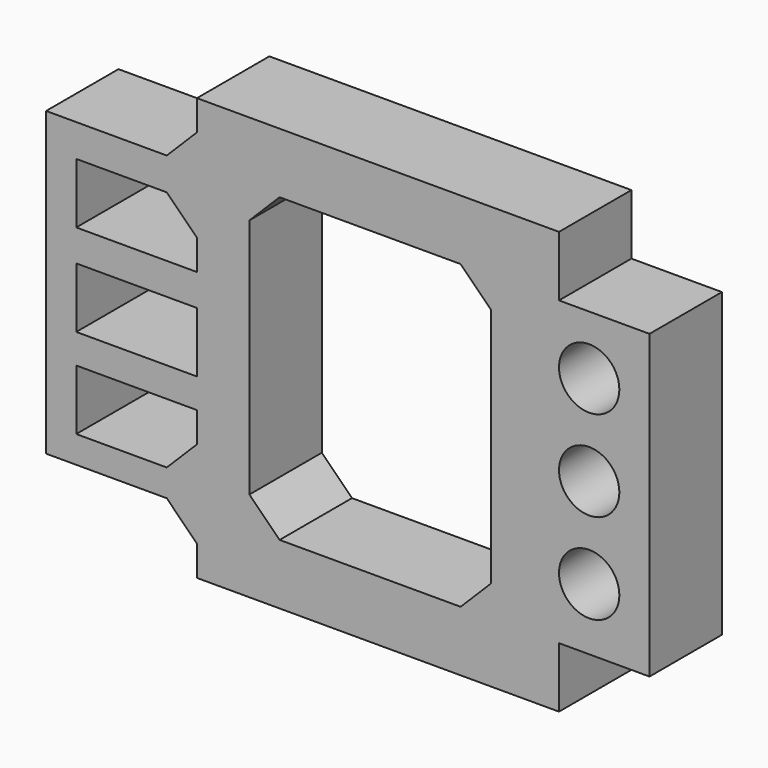
from build123d import *

# Parameters (mm, degrees)
F0_W     = 40
F0_H     = 20
F0_R     = 10
F1_DEPTH = 30


with BuildPart() as f1:
    # F0 (on Front) → F1 (new body)
    with BuildSketch(Plane.XZ):
        Polygon((-43.536229, -70.506869), (-33.536229, -70.506869), (66.463771, -70.506869), (76.463771, -70.506869), (76.463771, -60.506869), (76.463771, -50.506869), (86.463771, -50.506869), (96.463771, -50.506869), (106.463771, -50.506869), (106.463771, -40.506869), (106.463771, 39.493131), (106.463771, 49.493131), (96.463771, 49.493131), (86.463771, 49.493131), (76.463771, 49.493131), (76.463771, 59.493131), (76.463771, 69.493131), (66.463771, 69.493131), (-33.536229, 69.493131), (-43.536229, 69.493131), (-43.536229, 59.493131), (-53.536229, 49.493131), (-83.536229, 49.493131), (-93.536229, 49.493131), (-93.536229, 39.493131), (-93.536229, -40.506869), (-93.536229, -50.506869), (-83.536229, -50.506869), (-53.536229, -50.506869), (-43.536229, -60.506869), align=None)
        Polygon((-83.536229, -41.530258), (-83.536229, -21.530258), (-43.536229, -21.530258), (-43.536229, -31.530258), (-53.536229, -41.530258), align=None, mode=Mode.SUBTRACT)
        with Locations((-63.536229, -1.731679)):
            Rectangle(F0_W, F0_H, mode=Mode.SUBTRACT)
        with Locations((86.463771, -30.015362)):
            Circle(F0_R, mode=Mode.SUBTRACT)
        Polygon((-83.536229, 18.751925), (-83.536229, 38.751925), (-53.536229, 38.751925), (-43.536229, 28.751925), (-43.536229, 18.751925), align=None, mode=Mode.SUBTRACT)
        Polygon((-26.139987, 39.493131), (-16.139987, 49.493131), (43.860013, 49.493131), (53.860013, 39.493131), (53.860013, 24.493131), (53.860013, -0.506869), (53.860013, -40.506869), (43.860013, -50.506869), (-16.139987, -50.506869), (-26.139987, -40.506869), (-26.139987, -0.506869), (-26.139987, 24.493131), align=None, mode=Mode.SUBTRACT)
        with Locations((86.463771, -0.015362)):
            Circle(F0_R, mode=Mode.SUBTRACT)
        with Locations((86.463771, 29.984638)):
            Circle(F0_R, mode=Mode.SUBTRACT)
    extrude(amount=F1_DEPTH)


solid = f1.part
